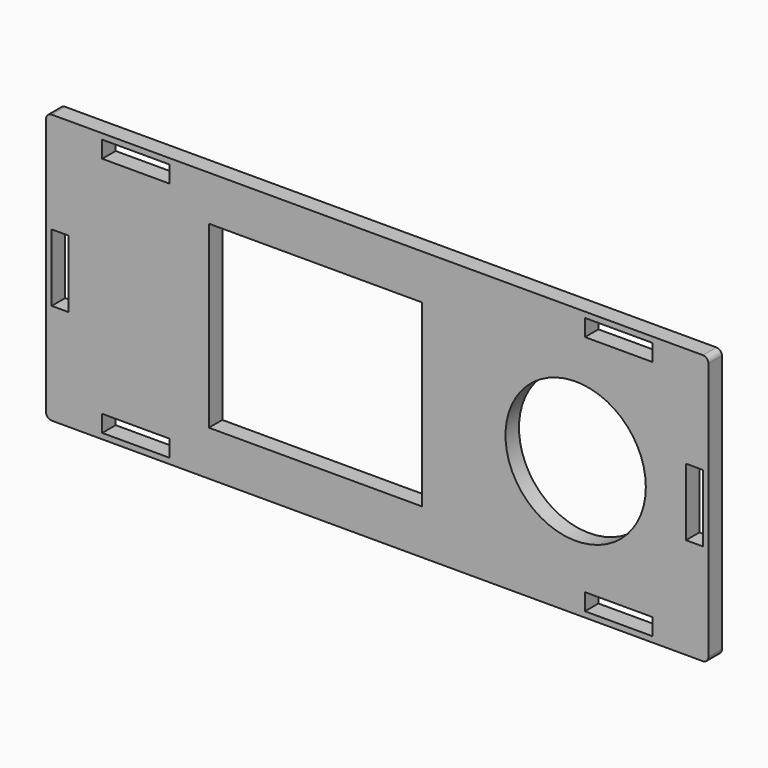
from build123d import *

# Parameters (mm, degrees)
F0_W     = 12
F0_H     = 3
F0_W_2   = 3
F0_H_2   = 12
F0_W_3   = 108
F0_H_3   = 38
F0_W_4   = 38
F0_H_4   = 32
F0_R     = 12.5
F1_DEPTH = 3


with BuildPart() as f1:
    # F0 (on Front) → F1 (new body)
    with BuildSketch(Plane.XZ):
        with BuildLine():
            ThreePointArc((-58, 24), (-58.707107, 23.707107), (-59, 23))
            Line((-59, 23), (-59, -23))
            ThreePointArc((-59, -23), (-58.707107, -23.707107), (-58, -24))
            Line((-58, -24), (58, -24))
            ThreePointArc((58, -24), (58.707107, -23.707107), (59, -23))
            Line((59, -23), (59, 23))
            ThreePointArc((59, 23), (58.707107, 23.707107), (58, 24))
            Line((58, 24), (-58, 24))
        make_face()
        with Locations((-43, -21.5)):
            Rectangle(F0_W, F0_H, mode=Mode.SUBTRACT)
        with Locations((43, -21.5)):
            Rectangle(F0_W, F0_H, mode=Mode.SUBTRACT)
        with Locations((-56.5, 0)):
            Rectangle(F0_W_2, F0_H_2, mode=Mode.SUBTRACT)
        with Locations((-43, 21.5)):
            Rectangle(F0_W, F0_H, mode=Mode.SUBTRACT)
        Rectangle(F0_W_3, F0_H_3, mode=Mode.SUBTRACT)
        with Locations((56.5, 0)):
            Rectangle(F0_W_2, F0_H_2, mode=Mode.SUBTRACT)
        with Locations((43, 21.5)):
            Rectangle(F0_W, F0_H, mode=Mode.SUBTRACT)
        Rectangle(F0_W_3, F0_H_3)
        with Locations((-11, 0)):
            Rectangle(F0_W_4, F0_H_4, mode=Mode.SUBTRACT)
        with Locations((35.345, 0)):
            Circle(F0_R, mode=Mode.SUBTRACT)
    extrude(amount=F1_DEPTH)


solid = f1.part
